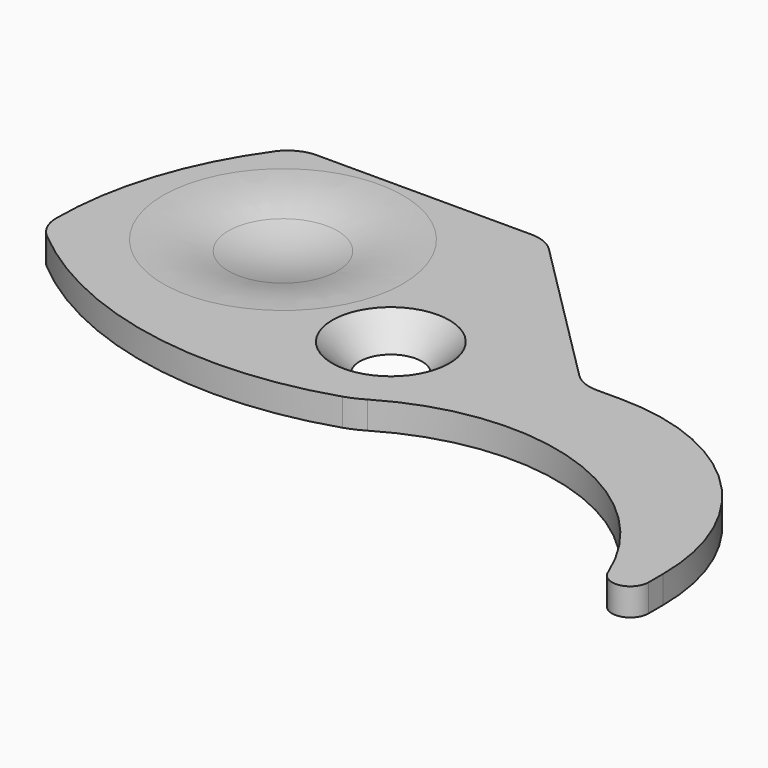
from build123d import *

# Parameters (mm, degrees)
PAD003_DEPTH = 1.5
FILLET_R     = 12


with BuildPart() as sphere:
    # Sphere → Sphere (revolve)
    with BuildSketch(Plane(origin=(8, 26, 10.5), x_dir=(1, 0, 0), z_dir=(0, -1, 0))):
        with BuildLine():
            ThreePointArc((0, -10), (10, 0), (0, 10))
            Line((0, 10), (0, -10))
        make_face()
    revolve(axis=Axis((8, 26, 10.5), (0, 0, 1)))


with BuildPart() as clone_of_countersunk002:
    # Sketch007 → Revolution001 (revolve)
    with BuildSketch(Plane.YZ):
        Polygon((3.2, 0), (1.5, -1.7), (1.5, -10), (0, -10), (0, 0), align=None)
    revolve(axis=Axis((0, 0, 0), (0, 0, 1)))


with BuildPart() as clone_of_countersunk002_1:
    # Clone005 placement: moved
    add(clone_of_countersunk002.part.moved(Location((17.5, 21.5, 1.5))))


with BuildPart() as obj1:
    # Sketch → Pad003 (new body)
    with BuildSketch(Plane.XY):
        with BuildLine():
            ThreePointArc((19.061248, 16.249999), (19.574732, 16.450771), (20.06299, 16.706856))
            ThreePointArc((38.071883, 10.627711), (30.468372, 17.817422), (20.06299, 16.706856))
            ThreePointArc((38.071883, 10.627711), (39.189583, 10.018135), (40, 11))
            Line((40, 12), (40, 11))
            ThreePointArc((40, 12), (36.631728, 20.131728), (28.5, 23.5))
            Line((27.156854, 23.5), (28.5, 23.5))
            ThreePointArc((25.742641, 24.085786), (26.391487, 23.652241), (27.156854, 23.5))
            Line((25.742641, 24.085786), (17.414214, 32.414214))
            ThreePointArc((17.414214, 32.414214), (16.765367, 32.847759), (16, 33))
            Line((16, 33), (4.254623, 33))
            ThreePointArc((4.254623, 33), (3.341193, 32.779226), (2.629424, 32.165644))
            ThreePointArc((2.629424, 32.165644), (0.078439, 27.101717), (-0.8, 21.5))
            ThreePointArc((-0.8, 21.5), (-0.614027, 20.657798), (-0.090695, 19.972222))
            ThreePointArc((-0.090695, 19.972222), (9.000609, 15.617355), (19.061248, 16.249999))
        make_face()
    extrude(amount=PAD003_DEPTH)

    # Cut003: cut Clone of Countersunk002
    add(clone_of_countersunk002_1.part, mode=Mode.SUBTRACT)

    # Cut004: cut Sphere
    add(sphere.part, mode=Mode.SUBTRACT)

    # Fillet
    fillet_edges = [obj1.edges().sort_by_distance(p)[0] for p in [
        (3.641101, 26, 1.5),
    ]]
    fillet(fillet_edges, radius=FILLET_R)


solid = obj1.part
